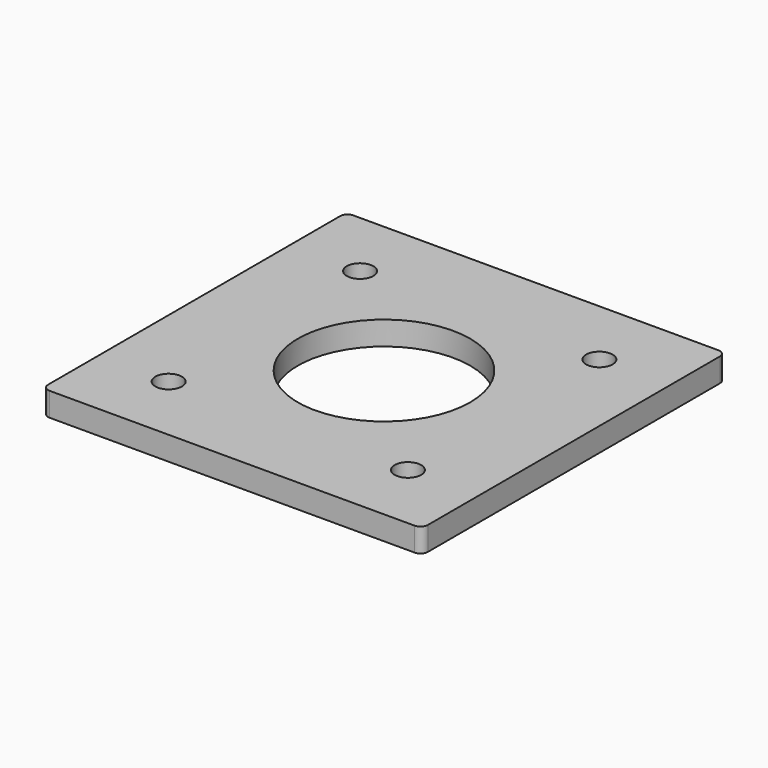
from build123d import *

# Parameters (mm, degrees)
F0_W     = 50.8
F0_H     = 50.8
F0_R     = 1.778
F0_R_2   = 11.5316
F1_DEPTH = 3.175
F2_R     = 1


with BuildPart() as f1:
    # F0 (on Top) → F1 (new body)
    with BuildSketch(Plane.XY):
        with Locations((25.4, 25.4)):
            Rectangle(F0_W, F0_H)
        with Locations((9.398, 9.398)):
            Circle(F0_R, mode=Mode.SUBTRACT)
        with Locations((25.4, 25.4)):
            Circle(F0_R_2, mode=Mode.SUBTRACT)
        with Locations((41.402, 9.398)):
            Circle(F0_R, mode=Mode.SUBTRACT)
        with Locations((9.398, 41.402)):
            Circle(F0_R, mode=Mode.SUBTRACT)
        with Locations((41.402, 41.402)):
            Circle(F0_R, mode=Mode.SUBTRACT)
    extrude(amount=F1_DEPTH)

    # F2
    f2_edges = [f1.edges().sort_by_distance(p)[0] for p in [
        (50.8, 0, 1.5875),
        (50.8, 50.8, 1.5875),
        (0, 50.8, 1.5875),
        (0, 0, 1.5875),
    ]]
    fillet(f2_edges, radius=F2_R)


solid = f1.part
